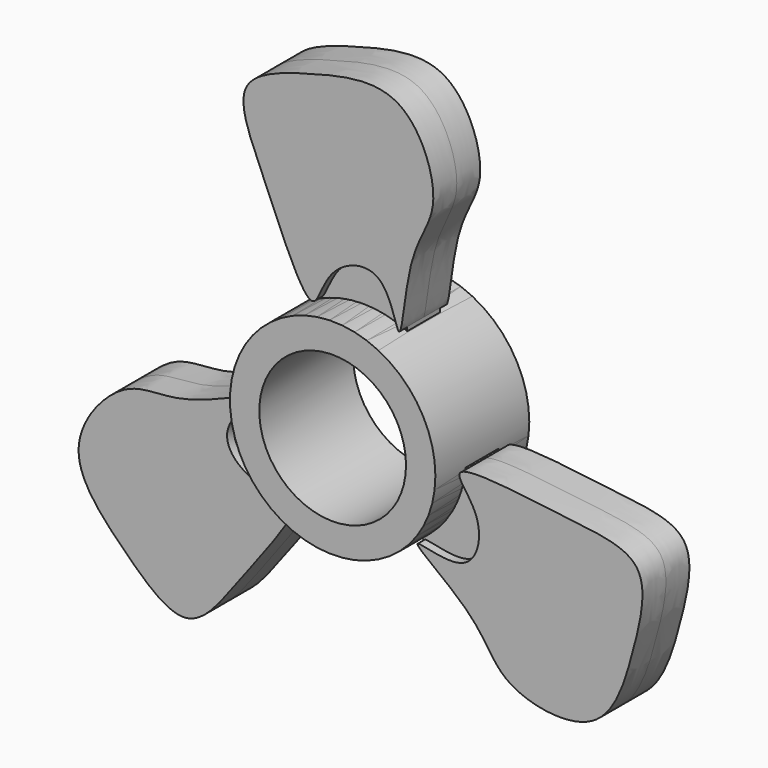
from build123d import *

# Parameters (mm, degrees)
F0_R      = 17.5
F1_DEPTH  = 10
F2_R      = 12.5
F3_DEPTH  = 20.001
F5_W      = 15
F5_H      = 7
F6_DEPTH  = 30
F8_DEPTH  = 5
F10_COUNT = 3


with BuildPart() as f1:
    # F0 (on Front) → F1 (new body, symmetric)
    with BuildSketch(Plane.XZ):
        Circle(F0_R)
    extrude(amount=F1_DEPTH, both=True)

    # F2 (on face) → F3 (cut, through all)
    with BuildSketch(Plane.XZ.offset(10)):
        Circle(F2_R)
    extrude(amount=-F3_DEPTH, mode=Mode.SUBTRACT)

    # F5 (on offset) → F6 (join)
    with BuildSketch(Plane.XY.offset(13)):
        Rectangle(F5_W, F5_H)
    extrude(amount=F6_DEPTH)

    # F7 (on Front) → F8 (join, symmetric)
    with BuildSketch(Plane.XZ):
        with BuildLine():
            add(Edge.make_bspline(
                [(-7.4820038863, 16.0850733519), (-9.2838846894, 16.1078683608), (-15.7075006891, 32.2783049769), (-22.2359913594, 45.8337612116), (-7.1936387239, 50.3985616039), (8.7336909052, 54.1494328745), (15.3668406328, 36.6229214369), (8.5528563604, 29.906467831), (7.6950747385, 10.5161802553), (5.3155154503, 26.1681917594), (-5.3151038106, 22.6243033935), (-6.4055671373, 16.0714557001), (-7.4820038863, 16.0850733519)],
                knots=[0, 0, 0, 0, 0.1231247996, 0.2324294261, 0.3373782652, 0.4514195275, 0.5617139101, 0.6587194188, 0.7599114427, 0.8412044569, 0.9264457123, 1, 1, 1, 1], degree=3))
        make_face()
    extrude(amount=F8_DEPTH, both=True)


with BuildPart() as f10_1:
    # F10: instance of F1
    add(f1.part.rotate(Axis((0, -1.9014067948, 0), (0, -1, 0)), 1 * 360 / F10_COUNT))


with BuildPart() as f10_2:
    # F10: instance of F1
    add(f1.part.rotate(Axis((0, -1.9014067948, 0), (0, -1, 0)), 2 * 360 / F10_COUNT))


solid = Compound([f1.part, f10_1.part, f10_2.part])
